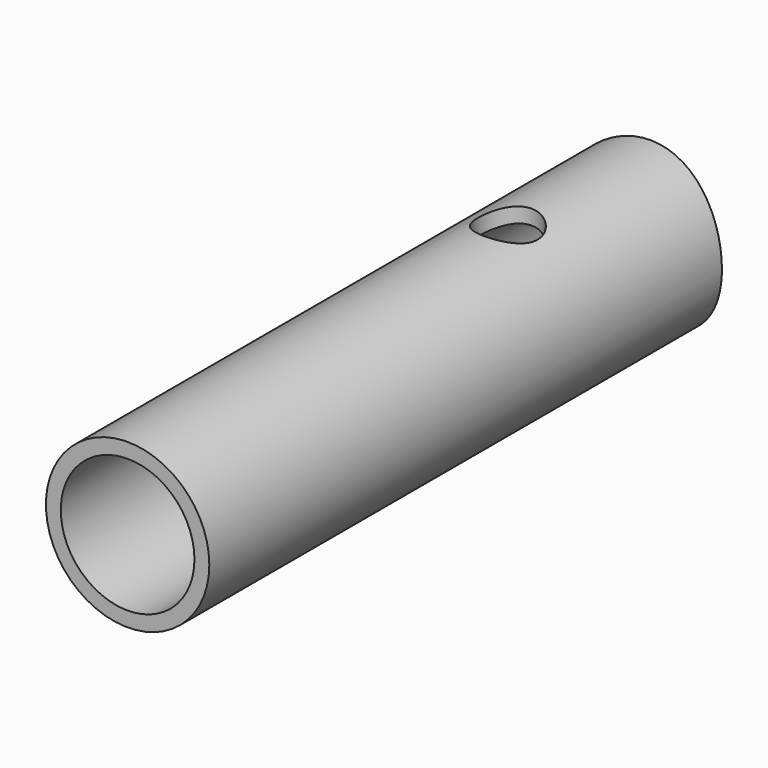
from build123d import *

# Parameters (mm, degrees)
F0_R     = 13.75
F0_R_2   = 11.25
F1_DEPTH = 110
F4_R     = 5
F5_DEPTH = 33.751
F6_DEPTH = 33.751


with BuildPart() as f1:
    # F0 (on Front) → F1 (new body)
    with BuildSketch(Plane.XZ):
        Circle(F0_R)
        Circle(F0_R_2, mode=Mode.SUBTRACT)
    extrude(amount=F1_DEPTH)

    # F4 (on offset) → F5 (cut, through all)
    with BuildSketch(Plane.XY.offset(-20)):
        with Locations((0, -30)):
            Circle(F4_R)
    extrude(amount=F5_DEPTH, mode=Mode.SUBTRACT)

    # F4 (on offset) → F6 (cut, through all)
    with BuildSketch(Plane.XY.offset(-20)):
        with BuildLine():
            Line((-21.2415, 7.674746), (-21.2415, -2.517288))
            Line((-21.2415, -2.517288), (-21.2415, -5.328869))
            ThreePointArc((-21.2415, -5.328869), (0.089579, -8.9e-05), (21.399274, -5.413752))
            Line((21.399274, -5.413752), (21.399274, -2.555365))
            Line((21.399274, -2.555365), (21.399274, 6.795851))
            Line((21.399274, 6.795851), (-21.2415, 7.674746))
        make_face()
    extrude(amount=F6_DEPTH, mode=Mode.SUBTRACT)


solid = f1.part
